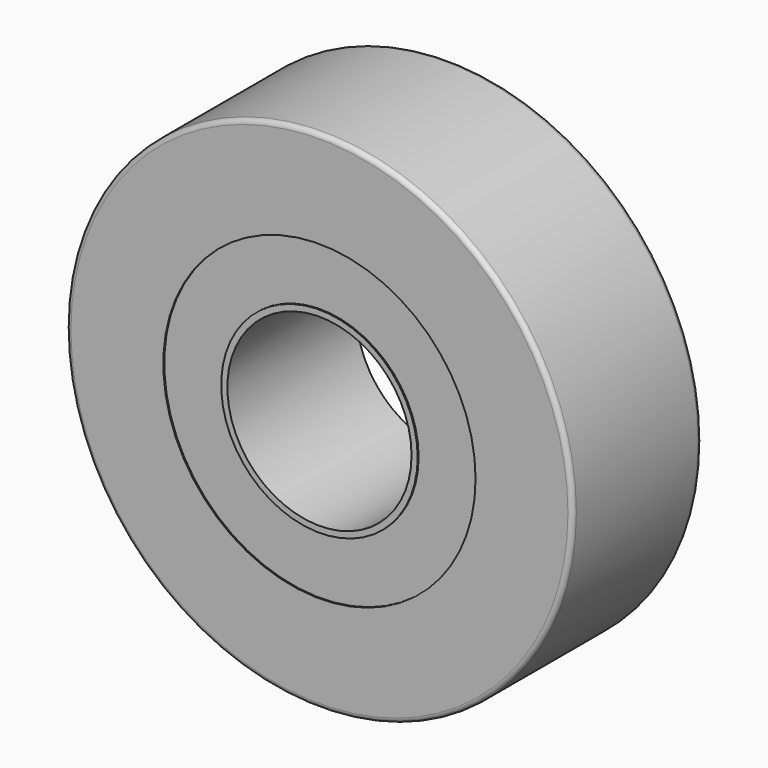
from build123d import *

# Parameters (mm, degrees)
F0_R        = 10.9982
F0_R_2      = 4.0005
F2_DEPTH    = 7.0104
F1_R        = 9.9949
F1_R_2      = 5.0038
F2_FACE_R   = 10.9982
F2_FACE_R_2 = 4.0005
F3_DEPTH    = 0.0508
F4_R        = 6.7818
F4_R_2      = 4.2672
F5_DEPTH    = 0.0508
F6_R        = 0.2032


with BuildPart() as f2:
    # F0 (on Front) → F2 (new body)
    with BuildSketch(Plane.XZ):
        Circle(F0_R)
        Circle(F0_R_2, mode=Mode.SUBTRACT)
    extrude(amount=F2_DEPTH)

    # F1 (on Front) + F2_face (on face) → F3 (cut)
    with BuildSketch(Plane.XZ):
        Circle(F1_R)
        Circle(F1_R_2, mode=Mode.SUBTRACT)
    with BuildSketch(Plane.XZ.offset(7.0104)):
        Circle(F2_FACE_R)
        Circle(F2_FACE_R_2, mode=Mode.SUBTRACT)
    extrude(amount=F3_DEPTH, mode=Mode.SUBTRACT)

    # F4 (on face) → F5 (cut)
    with BuildSketch(Plane.XZ.offset(7.0104)):
        Circle(F4_R)
        Circle(F4_R_2, mode=Mode.SUBTRACT)
    extrude(amount=-F5_DEPTH, mode=Mode.SUBTRACT)

    # F6
    f6_edges = [f2.edges().sort_by_distance(p)[0] for p in [
        (-10.9982, -7.0104, 0),
        (-10.9982, 0, 0),
    ]]
    fillet(f6_edges, radius=F6_R)


solid = f2.part
